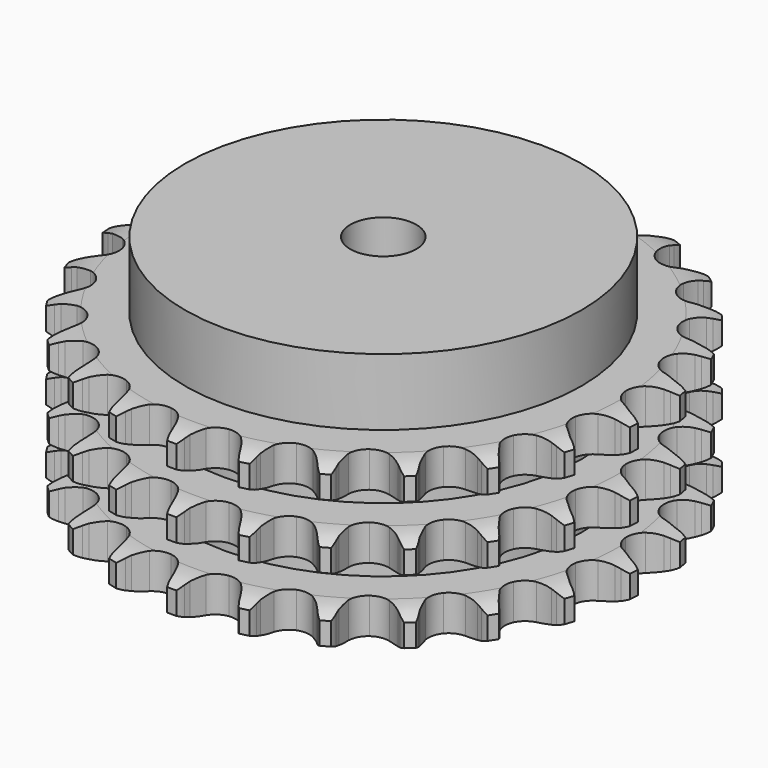
from build123d import *

# Parameters (mm, degrees)
PAD_DEPTH         = 49.8
SKETCH001_R       = 60
PAD001_DEPTH      = 70
SKETCH002_R       = 10
POCKET_DEPTH      = 0.001
POCKET_DEPTH_BACK = 70.001


with BuildPart() as part:
    # Sprocket → Pad (new body)
    with BuildSketch(Plane.XY):
        with BuildLine():
            ThreePointArc((-10.277544, 81.355136), (-8.691144, 79.605387), (-7.564451, 77.52961))
            Line((-7.564451, 77.52961), (-6.977682, 76.050618))
            ThreePointArc((-6.977682, 76.050618), (-6.042598, 74.097196), (-4.848531, 72.290419))
            ThreePointArc((-4.848531, 72.290419), (-2.704185, 70.525898), (0, 69.894126))
            ThreePointArc((0, 69.894126), (2.704185, 70.525898), (4.848531, 72.290419))
            ThreePointArc((4.848531, 72.290419), (6.042598, 74.097196), (6.977682, 76.050618))
            Line((6.977682, 76.050618), (7.564451, 77.52961))
            ThreePointArc((7.564451, 77.52961), (8.691144, 79.605387), (10.277544, 81.355136))
            ThreePointArc((10.277544, 81.355136), (11.378959, 79.265837), (11.95403, 76.975077))
            Line((11.95403, 76.975077), (12.154554, 75.396627))
            ThreePointArc((12.154554, 75.396627), (12.574465, 73.27203), (13.281691, 71.225063))
            ThreePointArc((13.281691, 71.225063), (14.919849, 68.9827), (17.381962, 67.698273))
            ThreePointArc((17.381962, 67.698273), (20.158306, 67.637693), (22.674102, 68.813502))
            Line((22.674102, 68.813502), (25.671485, 71.926069))
            ThreePointArc((25.671485, 71.926069), (26.123309, 72.581193), (26.60763, 73.212672))
            ThreePointArc((26.60763, 73.212672), (28.21515, 74.943037), (30.186855, 76.243294))
            ThreePointArc((30.186855, 76.243294), (30.73408, 73.945723), (30.721395, 71.583917))
            Line((30.721395, 71.583917), (30.523075, 70.005188))
            ThreePointArc((30.523075, 70.005188), (30.401428, 67.842912), (30.577375, 65.684375))
            ThreePointArc((30.577375, 65.684375), (31.606415, 63.105066), (33.671752, 61.248689))
            ThreePointArc((33.671752, 61.248689), (36.345806, 60.499564), (39.074975, 61.01278))
            Line((39.074975, 61.01278), (42.752254, 63.282141))
            ThreePointArc((42.752254, 63.282141), (43.352806, 63.804318), (43.978953, 64.295513))
            ThreePointArc((43.978953, 64.295513), (45.966295, 65.571742), (48.199416, 66.340805))
            ThreePointArc((48.199416, 66.340805), (48.158066, 63.979327), (47.558422, 61.694876))
            Line((47.558422, 61.694876), (46.973719, 60.215067))
            ThreePointArc((46.973719, 60.215067), (46.318157, 58.150974), (45.95177, 56.016495))
            ThreePointArc((45.95177, 56.016495), (46.307033, 53.262309), (47.845822, 50.950625))
            ThreePointArc((47.845822, 50.950625), (50.249565, 49.560025), (53.020624, 49.3784))
            Line((53.020624, 49.3784), (57.146742, 50.661963))
            ThreePointArc((57.146742, 50.661963), (57.858287, 51.018384), (58.586917, 51.33843))
            ThreePointArc((58.586917, 51.33843), (60.829208, 52.080332), (63.18343, 52.269879))
            ThreePointArc((63.18343, 52.269879), (62.556103, 49.992875), (61.407179, 47.929319))
            Line((61.407179, 47.929319), (60.472831, 46.641411))
            ThreePointArc((60.472831, 46.641411), (59.324546, 44.805197), (58.438847, 42.828894))
            ThreePointArc((58.438847, 42.828894), (58.09801, 40.072885), (59.013562, 37.451145))
            ThreePointArc((59.013562, 37.451145), (60.99596, 35.506447), (63.634792, 34.641394))
            Line((63.634792, 34.641394), (67.950489, 34.858507))
            ThreePointArc((67.950489, 34.858507), (68.728318, 35.026777), (69.51365, 35.155565))
            ThreePointArc((69.51365, 35.155565), (71.869999, 35.316524), (74.197396, 34.914645))
            ThreePointArc((74.197396, 34.914645), (73.023511, 32.865186), (71.397497, 31.152187))
            Line((71.397497, 31.152187), (70.172213, 30.137103))
            ThreePointArc((70.172213, 30.137103), (68.603356, 28.644145), (67.253996, 26.950195))
            ThreePointArc((67.253996, 26.950195), (66.238475, 24.365534), (66.473264, 21.598473))
            ThreePointArc((66.473264, 21.598473), (67.909754, 19.221868), (70.250553, 17.727741))
            Line((70.250553, 17.727741), (74.484658, 16.864763))
            ThreePointArc((74.484658, 16.864763), (75.279897, 16.834308), (76.072584, 16.763747))
            ThreePointArc((76.072584, 16.763747), (78.394933, 16.333648), (80.549268, 15.365595))
            ThreePointArc((80.549268, 15.365595), (78.902582, 13.672457), (76.901647, 12.417649))
            Line((76.901647, 12.417649), (75.462417, 11.739171))
            ThreePointArc((75.462417, 11.739171), (73.571565, 10.683275), (71.843329, 9.378116))
            ThreePointArc((71.843329, 9.378116), (70.216934, 7.127207), (69.756206, 4.388688))
            ThreePointArc((69.756206, 4.388688), (70.556528, 1.729509), (72.452212, -0.29981))
            Line((72.452212, -0.29981), (76.338682, -2.188655))
            ThreePointArc((76.338682, -2.188655), (77.101363, -2.415921), (77.851598, -2.6814))
            ThreePointArc((77.851598, -2.6814), (79.994025, -3.67553), (81.839932, -5.148932))
            ThreePointArc((81.839932, -5.148932), (79.823914, -6.379362), (77.573784, -7.097136))
            Line((77.573784, -7.097136), (76.01104, -7.396377))
            ThreePointArc((76.01104, -7.396377), (73.917001, -7.948864), (71.918481, -8.783224))
            ThreePointArc((71.918481, -8.783224), (69.783404, -10.558949), (68.656109, -13.096853))
            ThreePointArc((68.656109, -13.096853), (68.769976, -15.871522), (70.101433, -18.308524))
            Line((70.101433, -18.308524), (73.396065, -21.104553))
            ThreePointArc((73.396065, -21.104553), (74.078266, -21.51435), (74.73891, -21.958064))
            ThreePointArc((74.73891, -21.958064), (76.566798, -23.453762), (77.988293, -25.339933))
            ThreePointArc((77.988293, -25.339933), (75.729616, -26.030343), (73.371675, -26.165982))
            Line((73.371675, -26.165982), (71.783609, -26.067183))
            ThreePointArc((71.783609, -26.067183), (69.617961, -26.081546), (67.474731, -26.392682))
            ThreePointArc((67.474731, -26.392682), (64.965126, -27.581647), (63.242096, -29.759471))
            ThreePointArc((63.242096, -29.759471), (62.662354, -32.475287), (63.345923, -35.166845))
            Line((63.345923, -35.166845), (65.841704, -38.694374))
            ThreePointArc((65.841704, -38.694374), (66.40056, -39.260953), (66.930102, -39.855022))
            ThreePointArc((66.930102, -39.855022), (68.328598, -41.758307), (69.236363, -43.938732))
            ThreePointArc((69.236363, -43.938732), (66.876948, -44.045742), (64.559353, -43.590723))
            Line((64.559353, -43.590723), (63.04575, -43.100092))
            ThreePointArc((63.04575, -43.100092), (60.944568, -42.575429), (58.791295, -42.34379))
            ThreePointArc((58.791295, -42.34379), (56.064851, -42.871288), (53.85435, -44.552193))
            ThreePointArc((53.85435, -44.552193), (52.617426, -47.03851), (52.610155, -49.815505))
            Line((52.610155, -49.815505), (54.150266, -53.852885))
            ThreePointArc((54.150266, -53.852885), (54.550663, -54.540646), (54.915828, -55.247743))
            ThreePointArc((54.915828, -55.247743), (55.797061, -57.439025), (56.134057, -59.776699))
            ThreePointArc((56.134057, -59.776699), (53.822155, -59.293584), (51.690531, -58.276499))
            Line((51.690531, -58.276499), (50.346495, -57.424864))
            ThreePointArc((50.346495, -57.424864), (48.441803, -56.394141), (46.413786, -55.634283))
            ThreePointArc((46.413786, -55.634283), (43.641814, -55.46717), (41.082736, -56.545536))
            ThreePointArc((41.082736, -56.545536), (39.266351, -58.64613), (38.568698, -61.334073))
            Line((38.568698, -61.334073), (39.056368, -65.627621))
            ThreePointArc((39.056368, -65.627621), (39.273146, -66.393349), (39.450992, -67.169044))
            ThreePointArc((39.450992, -67.169044), (39.759589, -69.510637), (39.504642, -71.858676))
            ThreePointArc((39.504642, -71.858676), (37.385519, -70.815793), (35.573802, -69.300548))
            Line((35.573802, -69.300548), (34.483784, -68.14142))
            ThreePointArc((34.483784, -68.14142), (32.895262, -66.669402), (31.119928, -65.429069))
            ThreePointArc((31.119928, -65.429069), (28.476602, -64.577844), (25.729744, -64.985915))
            ThreePointArc((25.729744, -64.985915), (23.448027, -66.568798), (22.103828, -68.998795))
            Line((22.103828, -68.998795), (21.508415, -73.278732))
            ThreePointArc((21.508415, -73.278732), (21.527954, -74.074314), (21.507304, -74.869868))
            ThreePointArc((21.507304, -74.869868), (21.223876, -77.21464), (20.393005, -79.425509))
            ThreePointArc((20.393005, -79.425509), (18.599812, -77.888385), (17.22184, -75.970188))
            Line((17.22184, -75.970188), (16.454331, -74.576401))
            ThreePointArc((16.454331, -74.576401), (15.281791, -72.75558), (13.870691, -71.112706))
            ThreePointArc((13.870691, -71.112706), (11.522101, -69.630856), (8.760057, -69.34299))
            ThreePointArc((8.760057, -69.34299), (6.156377, -70.308704), (4.250093, -72.32807))
            Line((4.250093, -72.32807), (2.609009, -76.325472))
            ThreePointArc((2.609009, -76.325472), (2.43008, -77.100918), (2.212234, -77.866343))
            ThreePointArc((2.212234, -77.866343), (1.354589, -80.066964), (0, -82.001744))
            ThreePointArc((0, -82.001744), (-1.354589, -80.066964), (-2.212234, -77.866343))
            Line((-2.212234, -77.866343), (-2.609009, -76.325472))
            ThreePointArc((-2.609009, -76.325472), (-3.291891, -74.270256), (-4.250093, -72.32807))
            ThreePointArc((-4.250093, -72.32807), (-6.156377, -70.308704), (-8.760057, -69.34299))
            ThreePointArc((-8.760057, -69.34299), (-11.522101, -69.630856), (-13.870691, -71.112706))
            Line((-13.870691, -71.112706), (-16.454331, -74.576401))
            ThreePointArc((-16.454331, -74.576401), (-16.820484, -75.282987), (-17.22184, -75.970188))
            ThreePointArc((-17.22184, -75.970188), (-18.599812, -77.888385), (-20.393005, -79.425509))
            ThreePointArc((-20.393005, -79.425509), (-21.223876, -77.21464), (-21.507304, -74.869868))
            Line((-21.507304, -74.869868), (-21.508415, -73.278732))
            ThreePointArc((-21.508415, -73.278732), (-21.658732, -71.118259), (-22.103828, -68.998795))
            ThreePointArc((-22.103828, -68.998795), (-23.448027, -66.568798), (-25.729744, -64.985915))
            ThreePointArc((-25.729744, -64.985915), (-28.476602, -64.577844), (-31.119928, -65.429069))
            Line((-31.119928, -65.429069), (-34.483784, -68.14142))
            ThreePointArc((-34.483784, -68.14142), (-35.014155, -68.73475), (-35.573802, -69.300548))
            ThreePointArc((-35.573802, -69.300548), (-37.385519, -70.815793), (-39.504642, -71.858676))
            ThreePointArc((-39.504642, -71.858676), (-39.759589, -69.510637), (-39.450992, -67.169044))
            Line((-39.450992, -67.169044), (-39.056368, -65.627621))
            ThreePointArc((-39.056368, -65.627621), (-38.664675, -63.497641), (-38.568698, -61.334073))
            ThreePointArc((-38.568698, -61.334073), (-39.266351, -58.64613), (-41.082736, -56.545536))
            ThreePointArc((-41.082736, -56.545536), (-43.641814, -55.46717), (-46.413786, -55.634283))
            Line((-46.413786, -55.634283), (-50.346495, -57.424864))
            ThreePointArc((-50.346495, -57.424864), (-51.007758, -57.867655), (-51.690531, -58.276499))
            ThreePointArc((-51.690531, -58.276499), (-53.822155, -59.293584), (-56.134057, -59.776699))
            ThreePointArc((-56.134057, -59.776699), (-55.797061, -57.439025), (-54.915828, -55.247743))
            Line((-54.915828, -55.247743), (-54.150266, -53.852885))
            ThreePointArc((-54.150266, -53.852885), (-53.241174, -51.887232), (-52.610155, -49.815505))
            ThreePointArc((-52.610155, -49.815505), (-52.617426, -47.03851), (-53.85435, -44.552193))
            ThreePointArc((-53.85435, -44.552193), (-56.064851, -42.871288), (-58.791295, -42.34379))
            Line((-58.791295, -42.34379), (-63.04575, -43.100092))
            ThreePointArc((-63.04575, -43.100092), (-63.796356, -43.364522), (-64.559353, -43.590723))
            ThreePointArc((-64.559353, -43.590723), (-66.876948, -44.045742), (-69.236363, -43.938732))
            ThreePointArc((-69.236363, -43.938732), (-68.328598, -41.758307), (-66.930102, -39.855022))
            Line((-66.930102, -39.855022), (-65.841704, -38.694374))
            ThreePointArc((-65.841704, -38.694374), (-64.472335, -37.016557), (-63.345923, -35.166845))
            ThreePointArc((-63.345923, -35.166845), (-62.662354, -32.475287), (-63.242096, -29.759471))
            ThreePointArc((-63.242096, -29.759471), (-64.965126, -27.581647), (-67.474731, -26.392682))
            Line((-67.474731, -26.392682), (-71.783609, -26.067183))
            ThreePointArc((-71.783609, -26.067183), (-72.576394, -26.136638), (-73.371675, -26.165982))
            ThreePointArc((-73.371675, -26.165982), (-75.729616, -26.030343), (-77.988293, -25.339933))
            ThreePointArc((-77.988293, -25.339933), (-76.566798, -23.453762), (-74.73891, -21.958064))
            Line((-74.73891, -21.958064), (-73.396065, -21.104553))
            ThreePointArc((-73.396065, -21.104553), (-71.652461, -19.819997), (-70.101433, -18.308524))
            ThreePointArc((-70.101433, -18.308524), (-68.769976, -15.871522), (-68.656109, -13.096853))
            ThreePointArc((-68.656109, -13.096853), (-69.783404, -10.558949), (-71.918481, -8.783224))
            Line((-71.918481, -8.783224), (-76.01104, -7.396377))
            ThreePointArc((-76.01104, -7.396377), (-76.796191, -7.266492), (-77.573784, -7.097136))
            ThreePointArc((-77.573784, -7.097136), (-79.823914, -6.379362), (-81.839932, -5.148932))
            ThreePointArc((-81.839932, -5.148932), (-79.994025, -3.67553), (-77.851598, -2.6814))
            Line((-77.851598, -2.6814), (-76.338682, -2.188655))
            ThreePointArc((-76.338682, -2.188655), (-74.3304, -1.378072), (-72.452212, -0.29981))
            ThreePointArc((-72.452212, -0.29981), (-70.556528, 1.729509), (-69.756206, 4.388688))
            ThreePointArc((-69.756206, 4.388688), (-70.216934, 7.127207), (-71.843329, 9.378116))
            Line((-71.843329, 9.378116), (-75.462417, 11.739171))
            ThreePointArc((-75.462417, 11.739171), (-76.1906, 12.060234), (-76.901647, 12.417649))
            ThreePointArc((-76.901647, 12.417649), (-78.902582, 13.672457), (-80.549268, 15.365595))
            ThreePointArc((-80.549268, 15.365595), (-78.394933, 16.333648), (-76.072584, 16.763747))
            Line((-76.072584, 16.763747), (-74.484658, 16.864763))
            ThreePointArc((-74.484658, 16.864763), (-72.337887, 17.150441), (-70.250553, 17.727741))
            ThreePointArc((-70.250553, 17.727741), (-67.909754, 19.221868), (-66.473264, 21.598473))
            ThreePointArc((-66.473264, 21.598473), (-66.238475, 24.365534), (-67.253996, 26.950195))
            Line((-67.253996, 26.950195), (-70.172213, 30.137103))
            ThreePointArc((-70.172213, 30.137103), (-70.797674, 30.629172), (-71.397497, 31.152187))
            ThreePointArc((-71.397497, 31.152187), (-73.023511, 32.865186), (-74.197396, 34.914645))
            ThreePointArc((-74.197396, 34.914645), (-71.869999, 35.316524), (-69.51365, 35.155565))
            Line((-69.51365, 35.155565), (-67.950489, 34.858507))
            ThreePointArc((-67.950489, 34.858507), (-65.800118, 34.601329), (-63.634792, 34.641394))
            ThreePointArc((-63.634792, 34.641394), (-60.99596, 35.506447), (-59.013562, 37.451145))
            ThreePointArc((-59.013562, 37.451145), (-58.09801, 40.072885), (-58.438847, 42.828894))
            Line((-58.438847, 42.828894), (-60.472831, 46.641411))
            ThreePointArc((-60.472831, 46.641411), (-60.95627, 47.273565), (-61.407179, 47.929319))
            ThreePointArc((-61.407179, 47.929319), (-62.556103, 49.992875), (-63.18343, 52.269879))
            ThreePointArc((-63.18343, 52.269879), (-60.829208, 52.080332), (-58.586917, 51.33843))
            Line((-58.586917, 51.33843), (-57.146742, 50.661963))
            ThreePointArc((-57.146742, 50.661963), (-55.127885, 49.878089), (-53.020624, 49.3784))
            ThreePointArc((-53.020624, 49.3784), (-50.249565, 49.560025), (-47.845822, 50.950625))
            ThreePointArc((-47.845822, 50.950625), (-46.307033, 53.262309), (-45.95177, 56.016495))
            Line((-45.95177, 56.016495), (-46.973719, 60.215067))
            ThreePointArc((-46.973719, 60.215067), (-47.284759, 60.947587), (-47.558422, 61.694876))
            ThreePointArc((-47.558422, 61.694876), (-48.158066, 63.979327), (-48.199416, 66.340805))
            ThreePointArc((-48.199416, 66.340805), (-45.966295, 65.571742), (-43.978953, 64.295513))
            Line((-43.978953, 64.295513), (-42.752254, 63.282141))
            ThreePointArc((-42.752254, 63.282141), (-40.991765, 62.020825), (-39.074975, 61.01278))
            ThreePointArc((-39.074975, 61.01278), (-36.345806, 60.499564), (-33.671752, 61.248689))
            ThreePointArc((-33.671752, 61.248689), (-31.606415, 63.105066), (-30.577375, 65.684375))
            Line((-30.577375, 65.684375), (-30.523075, 70.005188))
            ThreePointArc((-30.523075, 70.005188), (-30.642173, 70.792048), (-30.721395, 71.583917))
            ThreePointArc((-30.721395, 71.583917), (-30.73408, 73.945723), (-30.186855, 76.243294))
            ThreePointArc((-30.186855, 76.243294), (-28.21515, 74.943037), (-26.60763, 73.212672))
            Line((-26.60763, 73.212672), (-25.671485, 71.926069))
            ThreePointArc((-25.671485, 71.926069), (-24.279982, 70.266564), (-22.674102, 68.813502))
            ThreePointArc((-22.674102, 68.813502), (-20.158306, 67.637693), (-17.381962, 67.698273))
            ThreePointArc((-17.381962, 67.698273), (-14.919849, 68.9827), (-13.281691, 71.225063))
            Line((-13.281691, 71.225063), (-12.154554, 75.396627))
            ThreePointArc((-12.154554, 75.396627), (-12.074226, 76.188384), (-11.95403, 76.975077))
            ThreePointArc((-11.95403, 76.975077), (-11.378959, 79.265837), (-10.277544, 81.355136))
        make_face()
    extrude(amount=PAD_DEPTH)

    # Sketch → Groove (revolve, cut)
    with BuildSketch(Plane.XZ):
        with BuildLine():
            ThreePointArc((71.514719, 0), (75.873618, 0.506758), (80, 2))
            Line((80, 2), (80, 8.8))
            ThreePointArc((80, 8.8), (75.873618, 10.293242), (71.514719, 10.8))
            Line((60, 10.8), (71.514719, 10.8))
            Line((60, 10.8), (60, 19.5))
            Line((60, 19.5), (71.514719, 19.5))
            ThreePointArc((71.514719, 19.5), (75.873618, 20.006758), (80, 21.5))
            Line((80, 28.3), (80, 21.5))
            ThreePointArc((80, 28.3), (75.873618, 29.793242), (71.514719, 30.3))
            Line((60, 30.3), (71.514719, 30.3))
            Line((60, 39), (60, 30.3))
            Line((71.514719, 39), (60, 39))
            ThreePointArc((71.514719, 39), (75.873618, 39.506758), (80, 41))
            Line((80, 41), (80, 47.8))
            ThreePointArc((80, 47.8), (75.873618, 49.293242), (71.514719, 49.8))
            Line((71.514719, 49.8), (90, 49.8))
            Line((90, 49.8), (90, 0))
            Line((71.514719, 0), (90, 0))
        make_face()
    revolve(axis=Axis((0, 0, 0), (0, 0, 1)), mode=Mode.SUBTRACT)

    # Sketch001 → Pad001 (join)
    with BuildSketch(Plane.XY):
        Circle(SKETCH001_R)
    extrude(amount=PAD001_DEPTH)

    # Sketch002 → Pocket (cut, two sides)
    with BuildSketch(Plane.XY) as pocket_sk:
        Circle(SKETCH002_R)
    extrude(amount=-POCKET_DEPTH, mode=Mode.SUBTRACT)
    extrude(pocket_sk.sketch, amount=POCKET_DEPTH_BACK, mode=Mode.SUBTRACT)


solid = part.part
